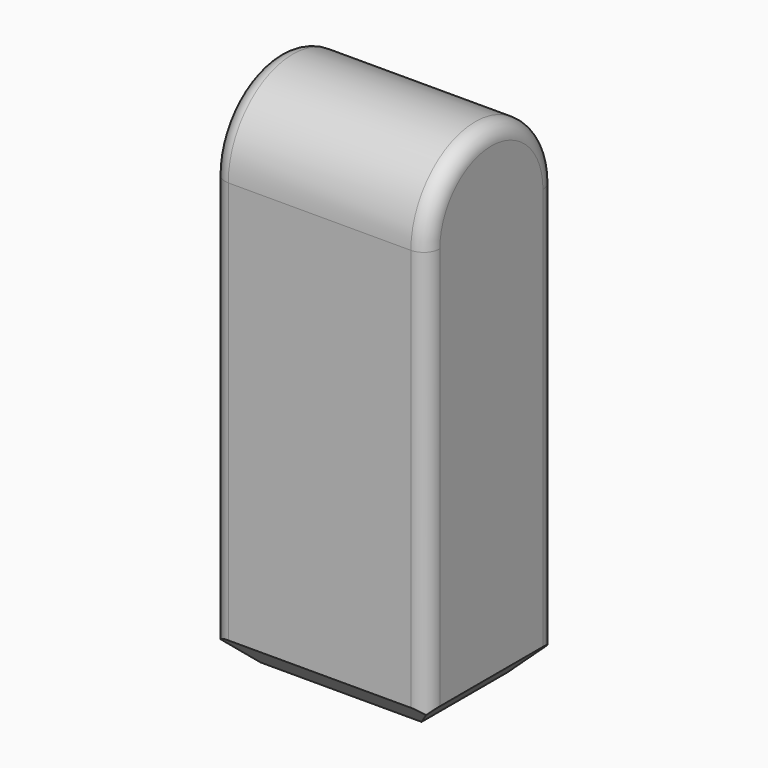
from build123d import *

# Parameters (mm, degrees)
F1_DEPTH = 4
F2_SIZE  = 0.5
F3_R     = 0.3


with BuildPart() as f1:
    # F0 (on Right) → F1 (new body)
    with BuildSketch(Plane.YZ):
        with BuildLine():
            Line((0, 0), (0, -8))
            Line((0, -8), (3, -8))
            Line((3, -8), (3, 0))
            ThreePointArc((3, 0), (1.5, 1.5), (0, 0))
        make_face()
    extrude(amount=F1_DEPTH)

    # F2
    f2_edges = [f1.edges().sort_by_distance(p)[0] for p in [
        (2, 0, -8),
        (2, 3, -8),
        (0, 1.5, -8),
        (4, 1.5, -8),
    ]]
    chamfer(f2_edges, length=F2_SIZE)

    # F3
    f3_edges = [f1.edges().sort_by_distance(p)[0] for p in [
        (0, 3, -3.75),
        (0, 1.5, 1.5),
        (0, 0, -3.75),
        (4, 3, -3.75),
        (4, 1.5, 1.5),
    ]]
    fillet(f3_edges, radius=F3_R)


solid = f1.part
